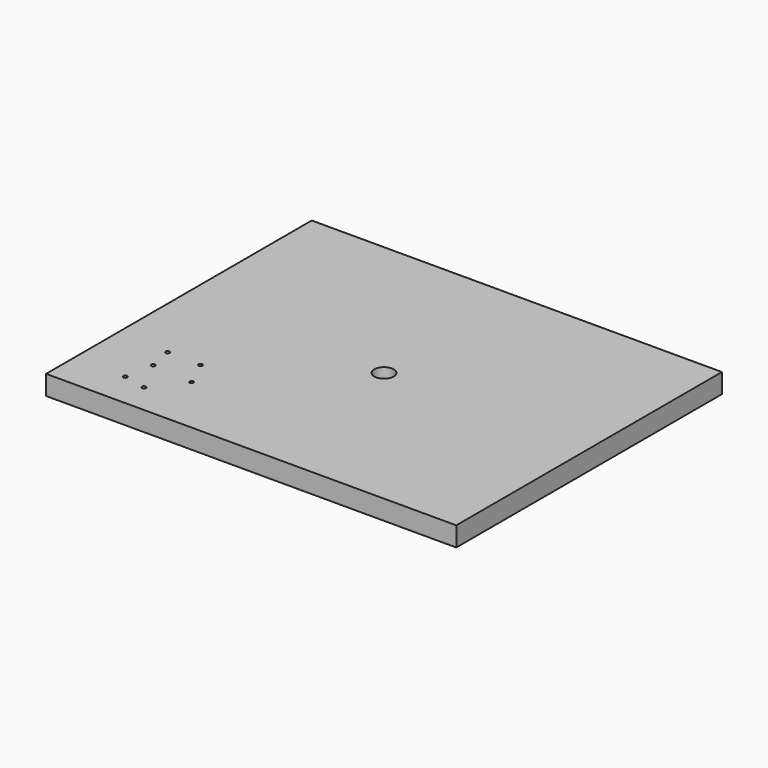
from build123d import *

# Parameters (mm, degrees)
F0_W      = 105
F0_H      = 85
F1_DEPTH  = 2.5
F1_FACE_W = 105
F1_FACE_H = 85
F2_DEPTH  = 2.5
F3_R      = 2.5
F3_R_2    = 0.5
F4_DEPTH  = 25


with BuildPart() as f1:
    # F0 (on Top) → F1 (new body)
    with BuildSketch(Plane.XY):
        Rectangle(F0_W, F0_H)
    extrude(amount=F1_DEPTH)

    # F1_face (on face) → F2 (join)
    with BuildSketch(Plane.XY.offset(2.5)):
        Rectangle(F1_FACE_W, F1_FACE_H)
    extrude(amount=F2_DEPTH)

    # F3 (on face) → F4 (cut)
    with BuildSketch(Plane.XY.offset(5)):
        Circle(F3_R)
        with Locations((-38.084019, -26.250001)):
            Circle(F3_R_2)
        with Locations((-27.540985, -27.110657)):
            Circle(F3_R_2)
        with Locations((-30.768445, -20.225411)):
            Circle(F3_R_2)
        with Locations((-39.375, -20.010246)):
            Circle(F3_R_2)
        with Locations((-33.565577, -34.856558)):
            Circle(F3_R_2)
        with Locations((-39.375, -33.565573)):
            Circle(F3_R_2)
    extrude(amount=-F4_DEPTH, mode=Mode.SUBTRACT)


solid = f1.part
